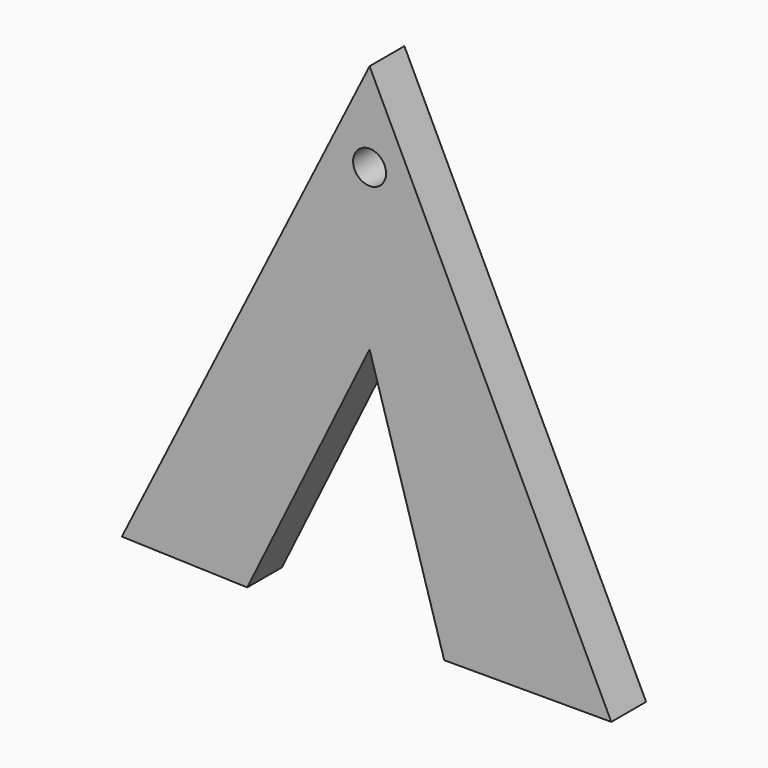
from build123d import *

# Parameters (mm, degrees)
F1_DEPTH = 13.208
F3_D     = 10


with BuildPart() as f1:
    # F0 (on Front) → F1 (new body)
    with BuildSketch(Plane.XZ):
        Polygon((0, 75.614825), (-75.179033, -74.538991), (-37.136629, -75.738192), (0, 0), (22.644289, -75.738192), (73.367499, -75.738192), align=None)
    extrude(amount=F1_DEPTH)

    # F3 (through all)
    with Locations(Plane.XZ.offset(13.208)):
        with Locations((0, 48.591536)):
            Hole(F3_D / 2)


solid = f1.part
